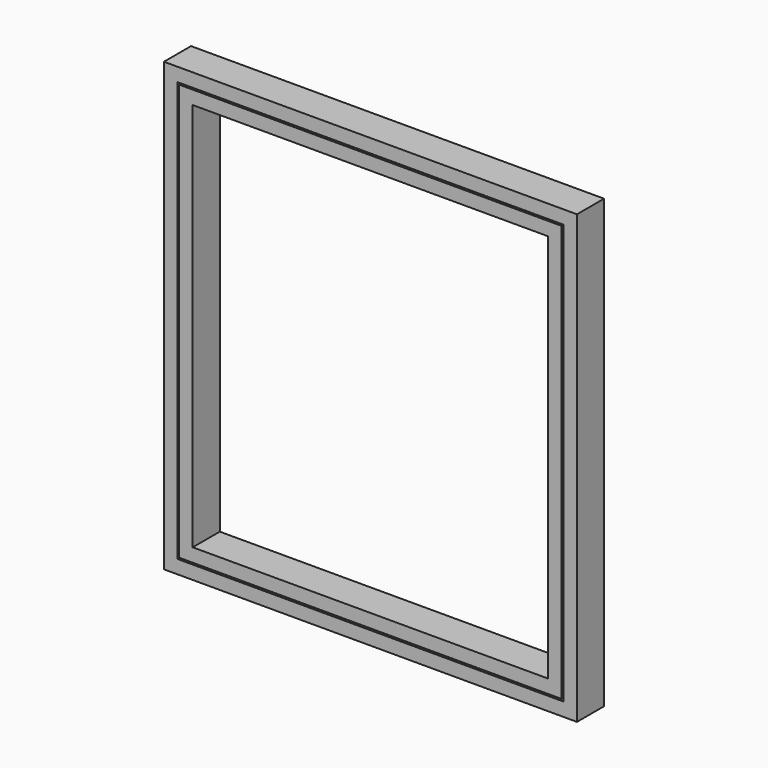
from build123d import *

# Parameters (mm, degrees)
F1_W     = 1130
F1_H     = 1230
F1_W_2   = 1050
F1_H_2   = 1150
F2_DEPTH = 100
F1_W_3   = 1220
F1_H_3   = 1320
F1_W_4   = 1140
F1_H_4   = 1240


with BuildPart() as f2:
    # F1 (on offset) → F2 (new body)
    with BuildSketch(Plane.XZ.offset(-150)):
        Rectangle(F1_W, F1_H)
        Rectangle(F1_W_2, F1_H_2, mode=Mode.SUBTRACT)
    extrude(amount=-F2_DEPTH)


with BuildPart() as f2b:
    # F1 (on offset) → F2, piece 2 (new body)
    with BuildSketch(Plane.XZ.offset(-150)):
        Rectangle(F1_W_3, F1_H_3)
        Rectangle(F1_W_4, F1_H_4, mode=Mode.SUBTRACT)
    extrude(amount=-F2_DEPTH)


solid = Compound([f2.part, f2b.part])
